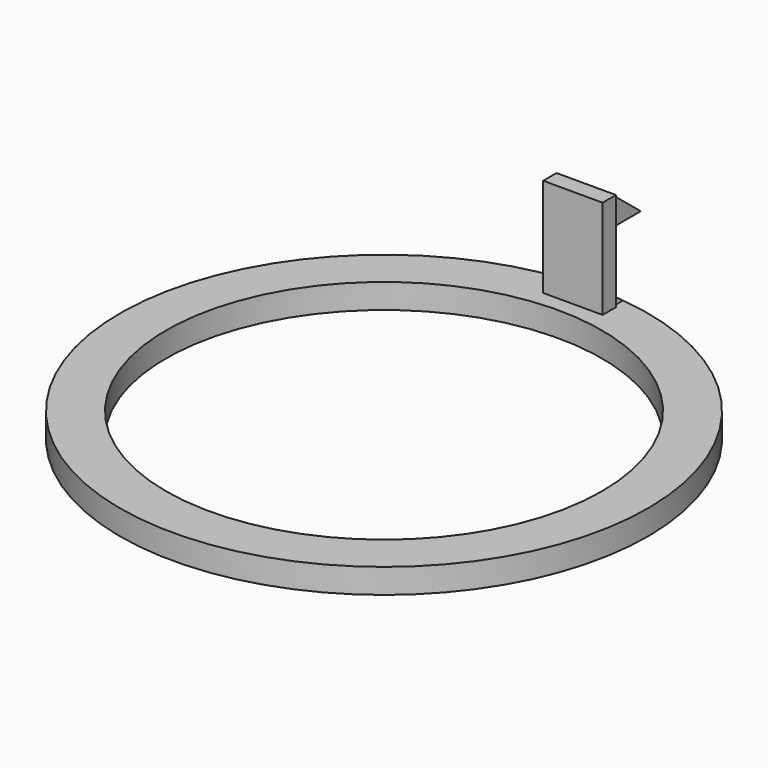
from build123d import *

# Parameters (mm, degrees)
F0_R     = 67.8691846605
F1_DEPTH = 6.35
F2_R     = 56.0252972028
F3_DEPTH = 19.05
F4_W     = 14.5653890634
F4_H     = 3.2436804546
F5_DEPTH = 6.35
F6_W     = 15.2813623847
F6_H     = 4.2958371341
F7_DEPTH = 25.4
F9_DEPTH = 12.7


with BuildPart() as f1:
    # F0 (on Top) → F1 (new body)
    with BuildSketch(Plane.XY):
        Circle(F0_R)
    extrude(amount=F1_DEPTH)

    # F2 (on Top) → F3 (cut)
    with BuildSketch(Plane.XY):
        Circle(F2_R)
    extrude(amount=F3_DEPTH, mode=Mode.SUBTRACT)

    # F4 (on face) → F5 (cut)
    with BuildSketch(Plane.XY.offset(6.35)):
        with Locations((0.2350237127, 65.8804305679)):
            Rectangle(F4_W, F4_H)
    extrude(amount=-F5_DEPTH, mode=Mode.SUBTRACT)

    # F6 (on face) → F7 (join)
    with BuildSketch(Plane.XY.offset(6.35)):
        with Locations((0.5930103733, 62.1106717736)):
            Rectangle(F6_W, F6_H)
    extrude(amount=F7_DEPTH)

    # F8 (on face) → F9 (join)
    with BuildSketch(Plane(origin=(-7.047670819, 0, 0), x_dir=(0, -1, 0), z_dir=(-1, 0, 0))):
        Polygon((-75.4654482007, 22.6880926639), (-64.2585903406, 22.6880926639), (-64.2585903406, 31.75), align=None)
    extrude(amount=-F9_DEPTH)


solid = f1.part
